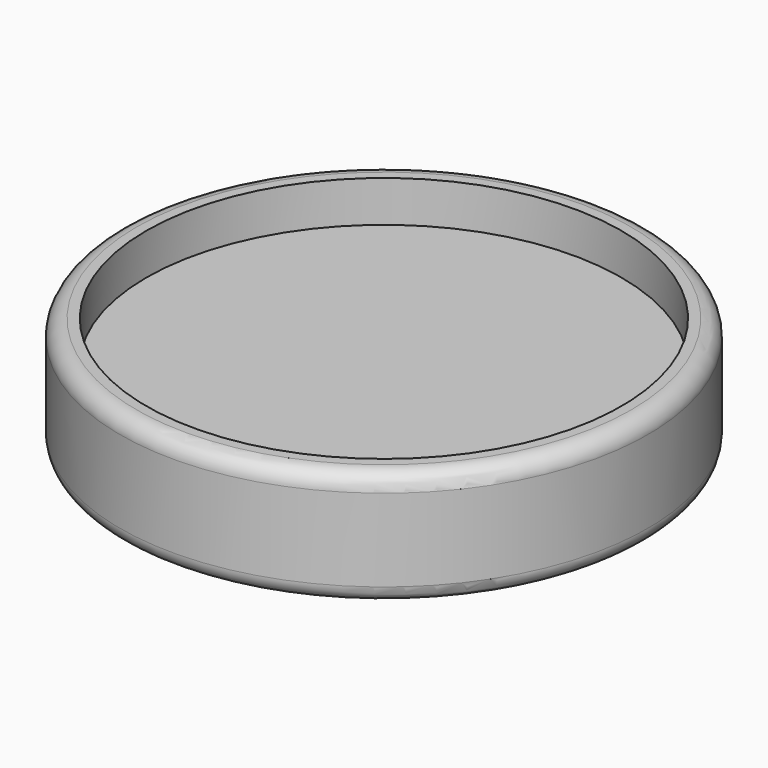
from build123d import *

# Parameters (mm, degrees)
F3_R = 1
F4_R = 1


with BuildPart() as f1:
    # F0 (on Front) → F1 (revolve)
    with BuildSketch(Plane.XZ):
        Polygon((-16, 0), (0, 0), (0, 1), (-14.4, 1), (-14.4, 3.5), (-16, 3.5), align=None)
    revolve(axis=Axis((0, 0, -1.1237002909), (0, 0, -1)))

    # F2: F1 across plane


with BuildPart() as f1_1:
    add(f1.part)
    add(f1.part.mirror(Plane.XY))

    # F3
    f3_edges = [f1_1.edges().sort_by_distance(p)[0] for p in [
        (16, 0, 3.5),
    ]]
    fillet(f3_edges, radius=F3_R)

    # F4
    f4_edges = [f1_1.edges().sort_by_distance(p)[0] for p in [
        (16, 0, -3.5),
    ]]
    fillet(f4_edges, radius=F4_R)


solid = f1_1.part
